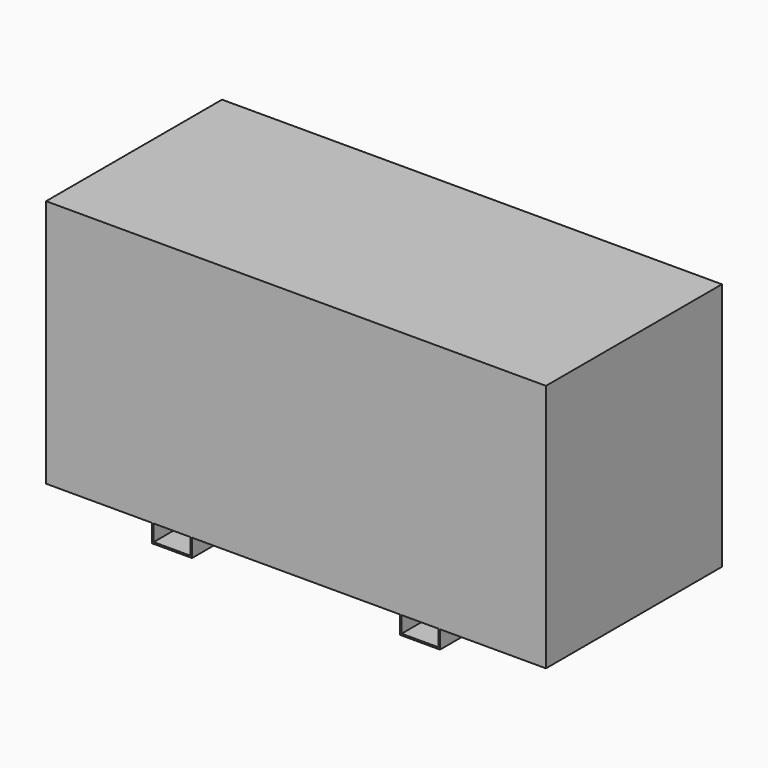
from build123d import *

# Parameters (mm, degrees)
F0_W     = 2500
F0_H     = 1100
F1_DEPTH = 1334
F2_W     = 530
F2_H     = 90
F2_W_2   = 1040
F2_W_3   = 184
F2_H_2   = 82
F3_DEPTH = 1100.001


with BuildPart() as f1:
    # F0 (on Top) → F1 (new body)
    with BuildSketch(Plane.XY):
        with Locations((1250, -550)):
            Rectangle(F0_W, F0_H)
    extrude(amount=F1_DEPTH)

    # F2 (on face) → F3 (cut, through all)
    with BuildSketch(Plane.XZ.offset(1100)):
        with Locations((265, 45)):
            Rectangle(F2_W, F2_H)
        with Locations((1250, 45)):
            Rectangle(F2_W_2, F2_H)
        with Locations((2235, 45)):
            Rectangle(F2_W, F2_H)
        with Locations((630, 49)):
            Rectangle(F2_W_3, F2_H_2)
        with Locations((1870, 49)):
            Rectangle(F2_W_3, F2_H_2)
    extrude(amount=-F3_DEPTH, mode=Mode.SUBTRACT)


solid = f1.part
